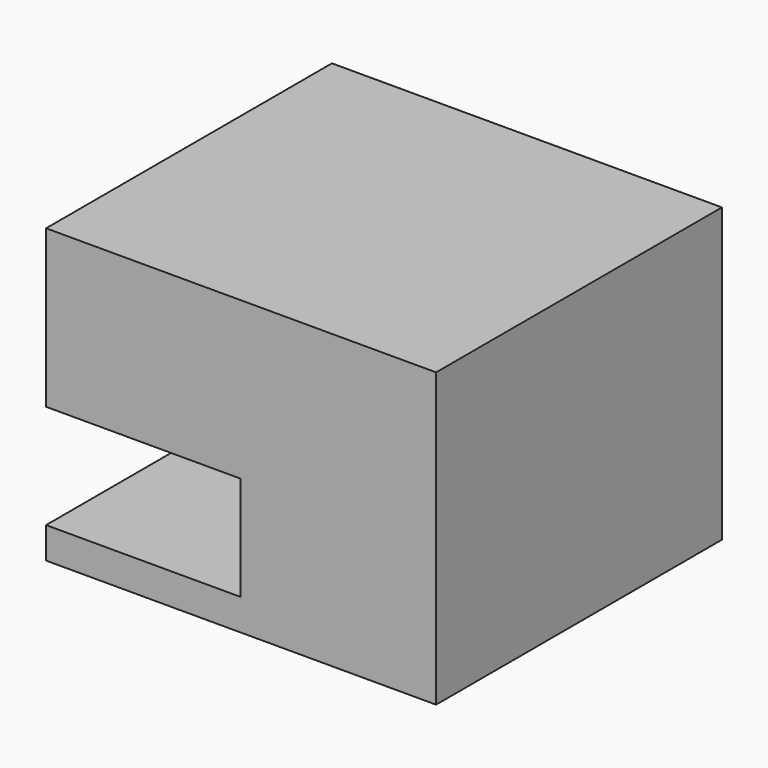
from build123d import *

# Parameters (mm, degrees)
F0_W     = 97.184672
F0_H     = 72.901874
F1_DEPTH = 44.5124
F3_DEPTH = 48.41849
F4_R     = 3.530572
F5_DEPTH = 35.26357


with BuildPart() as f1:
    # F0 (on Front) → F1 (new body, symmetric)
    with BuildSketch(Plane.XZ):
        Rectangle(F0_W, F0_H)
    extrude(amount=F1_DEPTH, both=True)

    # F2 (on face) → F3 (cut)
    with BuildSketch(Plane(origin=(-48.592336, 0, 0), x_dir=(0, -1, 0), z_dir=(-1, 0, 0))):
        with BuildLine():
            Line((44.5124, -2.707677), (-28.179571, -2.707677))
            ThreePointArc((-28.179571, -2.707677), (-41.152528, -15.680633), (-28.179571, -28.653589))
            Line((-28.179571, -28.653589), (44.5124, -28.653589))
            Line((44.5124, -28.653589), (44.5124, -2.707677))
        make_face()
    extrude(amount=-F3_DEPTH, mode=Mode.SUBTRACT)

    # F4 (on face) → F5 (cut)
    with BuildSketch(Plane(origin=(-0.173846, 0, 0), x_dir=(0, -1, 0), z_dir=(-1, 0, 0))):
        with Locations((0, -22.941379)):
            Circle(F4_R)
    extrude(amount=-F5_DEPTH, mode=Mode.SUBTRACT)


solid = f1.part
